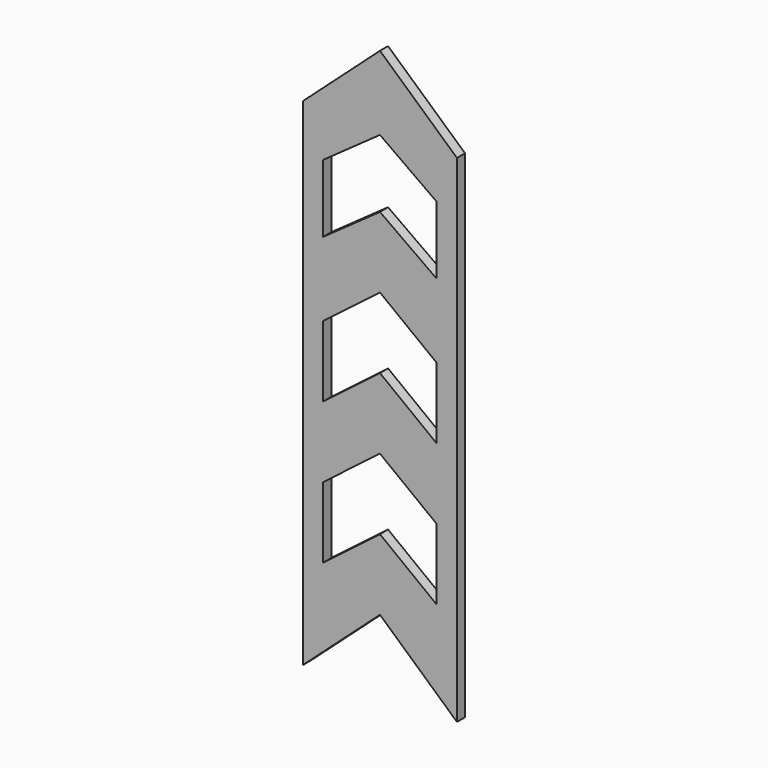
from build123d import *

# Parameters (mm, degrees)
F1_DEPTH = 10


with BuildPart() as f1:
    # F0 (on Front) → F1 (new body)
    with BuildSketch(Plane.XZ):
        Polygon((76, 172.676718), (0, 241.080747), (-76, 172.676718), (-76, -317.323282), (0, -248.919253), (76, -317.323282), align=None)
        Polygon((-56, -151.845365), (0, -108.919253), (56, -151.845365), (56, -221.845365), (0, -178.919253), (-56, -221.845365), align=None, mode=Mode.SUBTRACT)
        Polygon((-56, -11.845365), (0, 31.080747), (56, -11.845365), (56, -81.845365), (0, -38.919253), (-56, -81.845365), align=None, mode=Mode.SUBTRACT)
        Polygon((-56, 128.102943), (0, 167.964432), (56, 128.102943), (56, 61.219258), (0, 101.080747), (-56, 61.219258), align=None, mode=Mode.SUBTRACT)
        Polygon((76, 172.676718), (0, 241.080747), (-76, 172.676718), (-76, -317.323282), (0, -248.919253), (76, -317.323282), align=None)
        Polygon((-56, -151.845365), (0, -108.919253), (56, -151.845365), (56, -221.845365), (0, -178.919253), (-56, -221.845365), align=None, mode=Mode.SUBTRACT)
        Polygon((-56, -11.845365), (0, 31.080747), (56, -11.845365), (56, -81.845365), (0, -38.919253), (-56, -81.845365), align=None, mode=Mode.SUBTRACT)
        Polygon((-56, 128.102943), (0, 167.964432), (56, 128.102943), (56, 61.219258), (0, 101.080747), (-56, 61.219258), align=None, mode=Mode.SUBTRACT)
    extrude(amount=F1_DEPTH)


solid = f1.part
